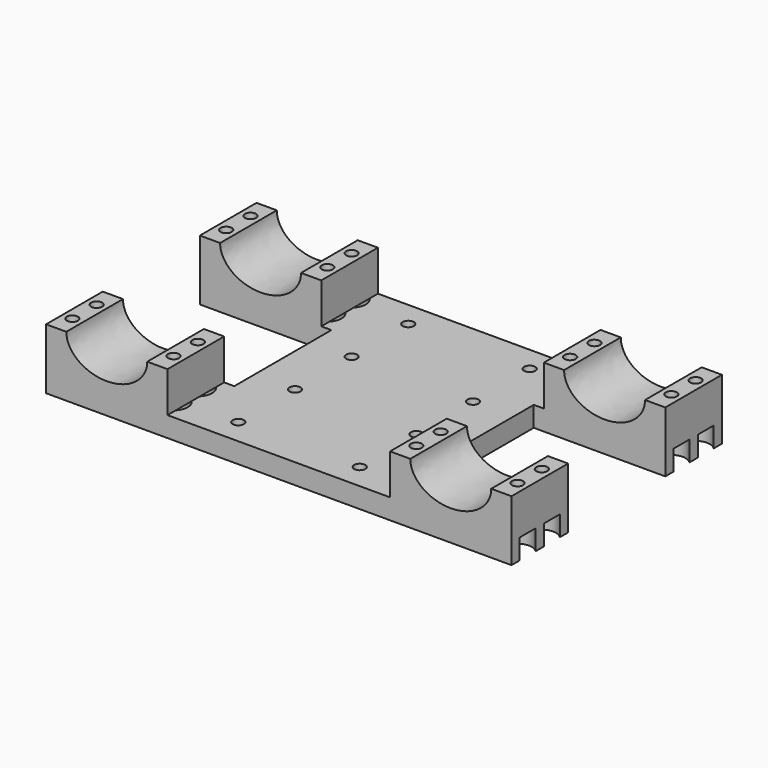
from build123d import *

# Parameters (mm, degrees)
SKETCH_W            = 230
SKETCH_H            = 130
PAD_DEPTH           = 10
SKETCH049_R         = 2.75
HOLE_DEPTH          = 25
PAD024_DEPTH        = 130
HOLE024_D           = 5.5
HOLE024_DEPTH       = 40
HOLE024_CBORE_D     = 14
HOLE024_CBORE_DEPTH = 10
SKETCH050_W         = 65
SKETCH050_H         = 60
POCKET_DEPTH        = 84


with BuildPart() as part:
    # Sketch → Pad (new body)
    with BuildSketch(Plane.XY):
        Rectangle(SKETCH_W, SKETCH_H)
    extrude(amount=PAD_DEPTH)

    # Sketch049 → Hole (cut)
    with BuildSketch(Plane.XY):
        with Locations((-30, 52.5)):
            Circle(SKETCH049_R)
        with Locations((-30, 17.5)):
            Circle(SKETCH049_R)
        with Locations((-30, -17.5)):
            Circle(SKETCH049_R)
        with Locations((-30, -52.5)):
            Circle(SKETCH049_R)
        with Locations((30, -52.5)):
            Circle(SKETCH049_R)
        with Locations((30, -17.5)):
            Circle(SKETCH049_R)
        with Locations((30, 17.5)):
            Circle(SKETCH049_R)
        with Locations((30, 52.5)):
            Circle(SKETCH049_R)
    extrude(amount=HOLE_DEPTH, mode=Mode.SUBTRACT)

    # Sketch051 → Pad024 (join)
    with BuildSketch(Plane.XZ.offset(-65)):
        with BuildLine():
            Line((-105, 30.00001), (-115, 30.00001))
            Line((-115, 30.00001), (-115, 10))
            Line((-115, 10), (-55, 10))
            Line((-55, 10), (-55, 29.999995))
            Line((-55, 29.999995), (-65, 29.999995))
            add(Edge.make_bspline(
                [(-85, 15), (-65.000007, 15), (-65, 29.999995)],
                knots=[4.712389, 4.712389, 4.712389, 6.283185, 6.283185, 6.283185], degree=2, weights=[1, 0.707107, 1]))
            add(Edge.make_bspline(
                [(-105, 30.00001), (-105.000014, 15), (-85, 15)],
                knots=[3.141592, 3.141592, 3.141592, 4.712389, 4.712389, 4.712389], degree=2, weights=[1, 0.707107, 1]))
        make_face()
        with BuildLine():
            Line((65, 30.00001), (55, 30.00001))
            Line((55, 30.00001), (55, 10))
            Line((55, 10), (115, 10))
            Line((115, 10), (115, 29.999995))
            Line((115, 29.999995), (105, 29.999995))
            add(Edge.make_bspline(
                [(85, 15), (104.999993, 15), (105, 29.999995)],
                knots=[4.712389, 4.712389, 4.712389, 6.283185, 6.283185, 6.283185], degree=2, weights=[1, 0.707107, 1]))
            add(Edge.make_bspline(
                [(65, 30.00001), (64.999986, 15), (85, 15)],
                knots=[3.141592, 3.141592, 3.141592, 4.712389, 4.712389, 4.712389], degree=2, weights=[1, 0.707107, 1]))
        make_face()
    extrude(amount=PAD024_DEPTH)

    # Hole024
    with Locations(Plane(origin=(0, 0, 0), x_dir=(1, 0, 0), z_dir=(0, 0, -1))):
        with Locations((-60, 55), (-60, 40), (-110, 55), (-110, 40), (-60, -40), (-60, -55), (-110, -40), (-110, -55), (110, 55), (110, 40), (60, 55), (60, 40), (110, -40), (110, -55), (60, -40), (60, -55)):
            CounterBoreHole(HOLE024_D / 2, HOLE024_CBORE_D / 2, HOLE024_CBORE_DEPTH, depth=HOLE024_DEPTH)

    # Sketch050 → Pocket (cut)
    with BuildSketch(Plane.XY):
        with Locations((-82.5, 0)):
            Rectangle(SKETCH050_W, SKETCH050_H)
        with Locations((82.5, 0)):
            Rectangle(SKETCH050_W, SKETCH050_H)
    extrude(amount=POCKET_DEPTH, mode=Mode.SUBTRACT)


with BuildPart() as part_1:
    # Body placement: moved
    add(part.part.moved(Location((0, 0, 10))))


solid = part_1.part
